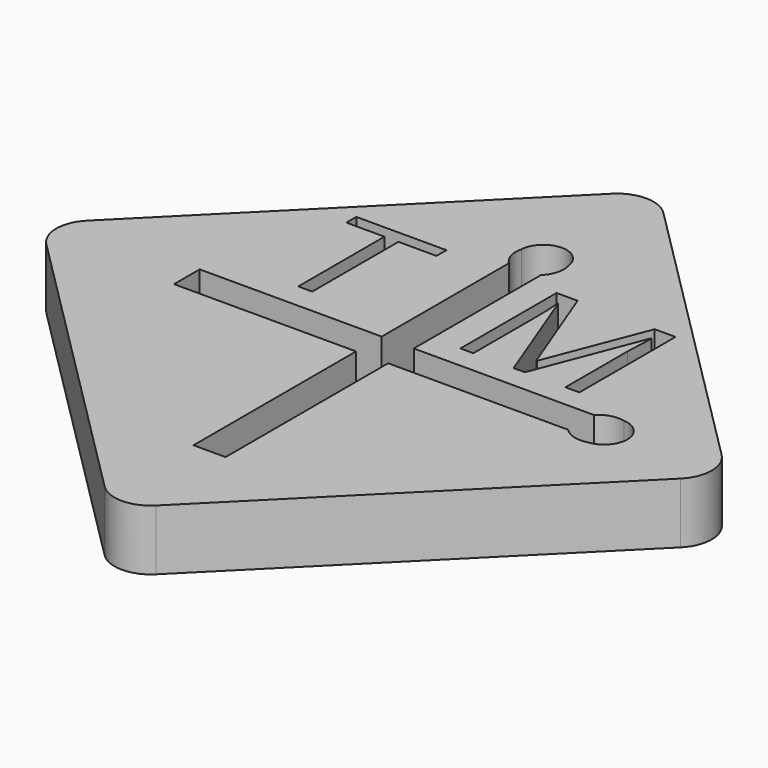
from build123d import *

# Parameters (mm, degrees)
F1_DEPTH = 2.5
F2_R     = 0.85
F3_DEPTH = 12.5


with BuildPart() as f1:
    # F0 (on Top) → F1 (new body)
    with BuildSketch(Plane.XY):
        with BuildLine():
            Line((13.081475452, -13.081475452), (1.0606601718, -1.0606601718))
            ThreePointArc((1.0606601718, -1.0606601718), (0, -0.6213203436), (-1.0606601718, -1.0606601718))
            Line((-1.0606601718, -1.0606601718), (-13.081475452, -13.081475452))
            ThreePointArc((-13.081475452, -13.081475452), (-13.5208152802, -14.1421356237), (-13.081475452, -15.2027957955))
            Line((-13.081475452, -15.2027957955), (-1.0606601718, -27.2236110757))
            ThreePointArc((-1.0606601718, -27.2236110757), (0, -27.6629509039), (1.0606601718, -27.2236110757))
            Line((1.0606601718, -27.2236110757), (13.081475452, -15.2027957955))
            ThreePointArc((13.081475452, -15.2027957955), (13.5208152802, -14.1421356237), (13.081475452, -13.081475452))
        make_face()
        Polygon((-4.3332411349, -7.9814997978), (-4.3332411349, -12.4270293117), (-4.9094130099, -12.4270293117), (-4.9094130099, -7.9814997978), (-6.479508496, -7.9814997978), (-6.479508496, -7.46934702), (-2.7631456488, -7.46934702), (-2.7631456488, -7.9814997978), align=None, mode=Mode.SUBTRACT)
        with BuildLine():
            Line((-8.1334756687, -14.8039748892), (-8.1334756687, -13.4802963582))
            Line((-8.1334756687, -13.4802963582), (-0.6236797201, -13.4802963582))
            Line((-0.6236797201, -13.4802963582), (-0.6236797201, -6.9198086858))
            ThreePointArc((-0.6236797201, -6.9198086858), (-0.9032194318, -6.4583786209), (-0.9135835525, -5.9189782686))
            ThreePointArc((-0.9135835525, -5.9189782686), (0.0168397474, -5.0141534426), (0.9868078824, -5.876451129))
            ThreePointArc((0.9868078824, -5.876451129), (0.9900106564, -6.4384308628), (0.6999988109, -6.9198086858))
            Line((0.6999988109, -6.9198086858), (0.6999988109, -13.4802963582))
            Line((0.6999988109, -13.4802963582), (8.1334756687, -13.4802963582))
            ThreePointArc((8.1334756687, -13.4802963582), (8.5949057336, -13.2007566465), (9.134306086, -13.1903925258))
            ThreePointArc((9.134306086, -13.1903925258), (10.0391309119, -14.1208158258), (9.1768332255, -15.0907839607))
            ThreePointArc((9.1768332255, -15.0907839607), (8.6148534917, -15.0939867347), (8.1334756687, -14.8039748892))
            Line((8.1334756687, -14.8039748892), (0.6999988109, -14.8039748892))
            Line((0.6999988109, -14.8039748892), (0.6999988109, -23.1867600232))
            Line((0.6999988109, -23.1867600232), (-0.6236797201, -23.1867600232))
            Line((-0.6236797201, -23.1867600232), (-0.6236797201, -14.8039748892))
            Line((-0.6236797201, -14.8039748892), (-8.1334756687, -14.8039748892))
        make_face(mode=Mode.SUBTRACT)
        with BuildLine():
            Line((4.530735705, -12.5424201787), (4.0663259828, -12.5424201787))
            Line((4.0663259828, -12.5424201787), (2.3844683439, -8.1478889287))
            Line((2.3844683439, -8.1478889287), (2.3573416078, -8.1478889287))
            add(Edge.make_bspline(
                [(2.3573416078, -8.1478889287), (2.4050846634, -8.6698073314), (2.4050846634, -9.3892083731)],
                knots=[0, 0, 0, 1, 1, 1], degree=2))
            Line((2.4050846634, -9.3892083731), (2.4050846634, -12.5424201787))
            Line((2.4050846634, -12.5424201787), (1.8723155662, -12.5424201787))
            Line((1.8723155662, -12.5424201787), (1.8723155662, -7.584737887))
            Line((1.8723155662, -7.584737887), (2.7403711217, -7.584737887))
            Line((2.7403711217, -7.584737887), (4.3104666078, -11.6743646231))
            Line((4.3104666078, -11.6743646231), (4.3375933439, -11.6743646231))
            Line((4.3375933439, -11.6743646231), (5.9207096634, -7.584737887))
            Line((5.9207096634, -7.584737887), (6.7822548023, -7.584737887))
            Line((6.7822548023, -7.584737887), (6.7822548023, -12.5424201787))
            Line((6.7822548023, -12.5424201787), (6.2060829273, -12.5424201787))
            Line((6.2060829273, -12.5424201787), (6.2060829273, -9.3479757342))
            add(Edge.make_bspline(
                [(6.2060829273, -9.3479757342), (6.2060829273, -8.7989305953), (6.2538259828, -8.1543993453)],
                knots=[0, 0, 0, 1, 1, 1], degree=2))
            Line((6.2538259828, -8.1543993453), (6.2266992467, -8.1543993453))
            Line((6.2266992467, -8.1543993453), (4.530735705, -12.5424201787))
        make_face(mode=Mode.SUBTRACT)
    extrude(amount=F1_DEPTH)

    # F2 (on Right) → F3 (cut, symmetric)
    with BuildSketch(Plane.YZ):
        with Locations((-2.4908210296, 1.292226194)):
            Circle(F2_R)
    extrude(amount=F3_DEPTH, both=True, mode=Mode.SUBTRACT)


solid = f1.part
